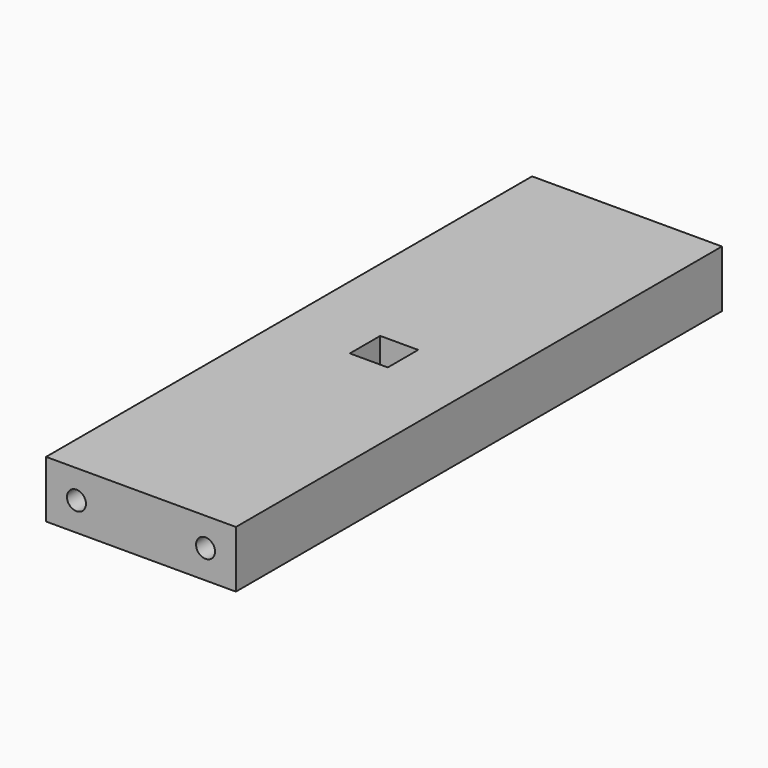
from build123d import *

# Parameters (mm, degrees)
F0_W     = 63.5
F0_H     = 203.2
F0_W_2   = 12.7
F0_H_2   = 12.7
F1_DEPTH = 19.05
F3_D     = 6.35
F3_DEPTH = 38.1
F3_TIP   = 1.9077324654
F5_D     = 6.35
F5_DEPTH = 38.1
F5_TIP   = 1.9077324654


with BuildPart() as f1:
    # F0 (on Top) → F1 (new body)
    with BuildSketch(Plane.XY):
        Rectangle(F0_W, F0_H)
        Rectangle(F0_W_2, F0_H_2, mode=Mode.SUBTRACT)
    extrude(amount=F1_DEPTH)

    # F3
    with Locations(Plane.XZ.offset(101.6)):
        with Locations((-21.59, 9.525), (21.59, 9.525)):
            Hole(F3_D / 2, depth=F3_DEPTH)
            with Locations((0, 0, -(F3_DEPTH + F3_TIP / 2))):  # 118° drill point
                Cone(0, F3_D / 2, F3_TIP, mode=Mode.SUBTRACT)

    # F5
    with Locations(Plane(origin=(0, 101.6, 0), x_dir=(-1, 0, 0), z_dir=(0, 1, 0))):
        with Locations((21.59, 9.525), (-21.59, 9.525)):
            Hole(F5_D / 2, depth=F5_DEPTH)
            with Locations((0, 0, -(F5_DEPTH + F5_TIP / 2))):  # 118° drill point
                Cone(0, F5_D / 2, F5_TIP, mode=Mode.SUBTRACT)


solid = f1.part
